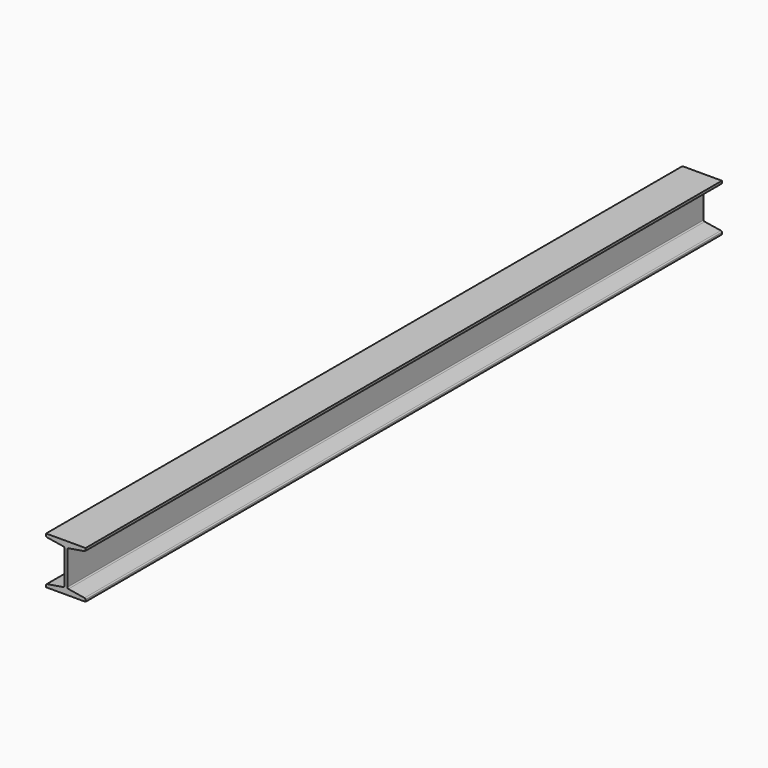
from build123d import *

# Parameters (mm, degrees)
EXTRUDE_DEPTH = 1280
FILLET_R      = 2


with BuildPart() as part:
    # Sketch → Extrude (new body)
    with BuildSketch(Plane.XZ):
        Polygon((-31.75, 38.1), (31.75, 38.1), (31.75, 33.3375), (2.38125, 28.575), (2.38125, -28.575), (31.75, -33.3375), (31.75, -38.1), (-31.75, -38.1), (-31.75, -33.3375), (-2.38125, -28.575), (-2.38125, 28.575), (-31.75, 33.3375), align=None)
    extrude(amount=-EXTRUDE_DEPTH)

    # Fillet
    fillet_edges = [part.edges().sort_by_distance(p)[0] for p in [
        (31.75, 640, 33.3375),
        (2.38125, 640, 28.575),
        (2.38125, 640, -28.575),
        (31.75, 640, -33.3375),
        (-31.75, 640, -33.3375),
        (-2.38125, 640, -28.575),
        (-2.38125, 640, 28.575),
        (-31.75, 640, 33.3375),
    ]]
    fillet(fillet_edges, radius=FILLET_R)


solid = part.part
